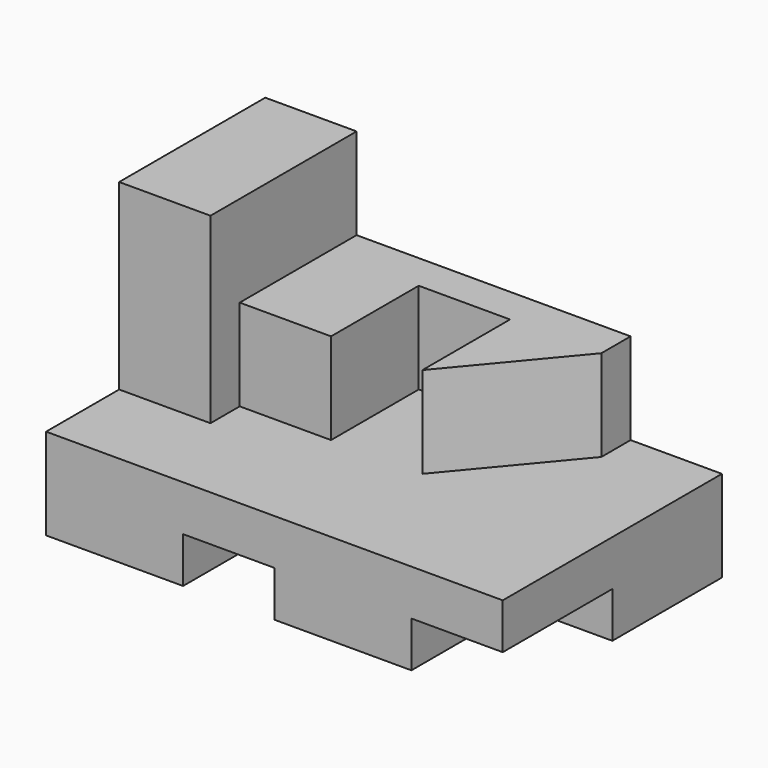
from build123d import *

# Parameters (mm, degrees)
F1_DEPTH = 25.4
F2_W     = 95.25
F2_H     = 31.75
F3_DEPTH = 165.1
F4_DEPTH = 69.85
F5_W     = 63.5
F5_H     = 101.6
F6_DEPTH = 127
F8_W     = 63.5
F8_H     = 76.2
F9_DEPTH = 63.5


with BuildPart() as f1:
    # F0 (on Front) → F1 (new body)
    with BuildSketch(Plane.XZ):
        Polygon((0, 190.5), (0, 0), (95.25, 0), (95.25, 31.75), (158.75, 31.75), (158.75, 0), (317.5, 0), (317.5, 63.5), (254, 63.5), (254, 127), (63.5, 127), (63.5, 190.5), align=None)
    extrude(amount=F1_DEPTH)

    # F2 (on face) → F3 (join)
    with BuildSketch(Plane.XZ.offset(25.4)):
        Polygon((317.5, 63.5), (254, 63.5), (0, 63.5), (0, 31.75), (95.25, 31.75), (158.75, 31.75), (254, 31.75), (317.5, 31.75), align=None)
        with Locations((47.625, 15.875)):
            Rectangle(F2_W, F2_H)
        with Locations((206.375, 15.875)):
            Rectangle(F2_W, F2_H)
    extrude(amount=F3_DEPTH)

    # F4 (add): a face of the model
    f4_faces = [f1.faces().sort_by_distance(p)[0] for p in [
        (285.75, -25.4, 15.875),
    ]]
    extrude(f4_faces, amount=F4_DEPTH)

    # F5 (on face) → F6 (join)
    with BuildSketch(Plane.XY.offset(63.5)):
        with Locations((31.75, -76.2)):
            Rectangle(F5_W, F5_H)
    extrude(amount=F6_DEPTH)

    # F8 (on face) + F7 (on face) → F9 (join)
    with BuildSketch(Plane.XY.offset(63.5)):
        with Locations((95.25, -63.5)):
            Rectangle(F8_W, F8_H)
    with BuildSketch(Plane.XY.offset(63.5)):
        Polygon((254, -25.4), (190.5, -25.4), (190.5, -101.6), align=None)
    extrude(amount=F9_DEPTH)


solid = f1.part
